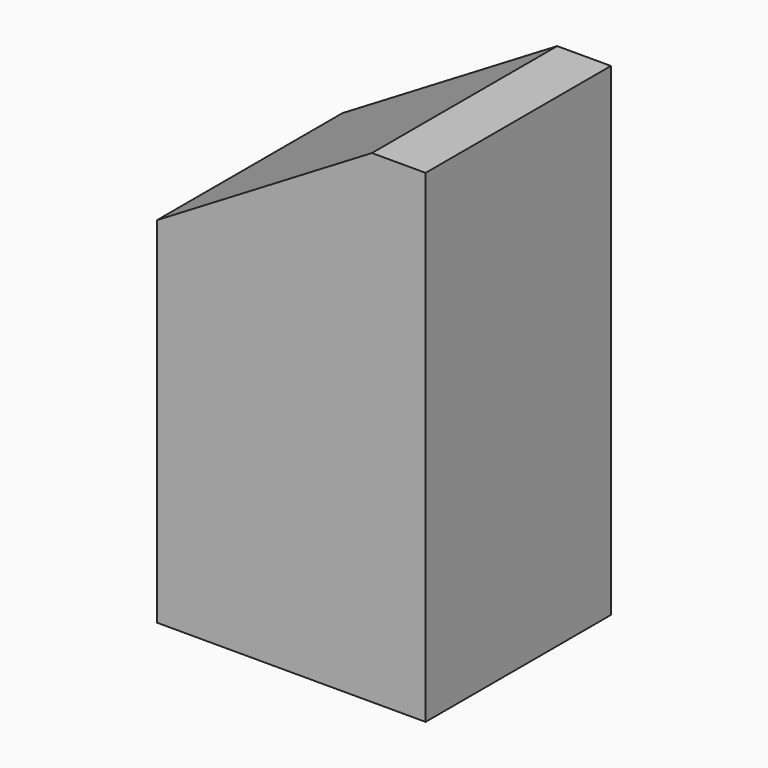
from build123d import *

# Parameters (mm, degrees)
SKETCH017_W     = 16
SKETCH017_H     = 15.8
PAD010_DEPTH    = 28.8
POCKET007_DEPTH = 16
PAD137_DEPTH    = 15.8
SKETCH190_W     = 16
SKETCH190_H     = 2
POCKET072_DEPTH = 30


with BuildPart() as part:
    # Sketch017 (on Face68 of Binder006) → Pad010 (new body)
    with BuildSketch(Plane.XY.offset(-28.8)):
        with Locations((-8, 127.9)):
            Rectangle(SKETCH017_W, SKETCH017_H)
    extrude(amount=PAD010_DEPTH)

    # Sketch018 (on Face3 of Pad010) → Pocket007 (cut)
    with BuildSketch(Plane.XZ.offset(-120)):
        Polygon((0, 0), (-16, -9.6), (-16, 0), align=None)
    extrude(amount=-POCKET007_DEPTH, mode=Mode.SUBTRACT)

    # Sketch141 (on Face6 of Pocket007) → Pad137 (join)
    with BuildSketch(Plane.XZ.offset(-120)):
        Polygon((0, 0), (-3.2, 0), (-16, -7.68), (-16, -10.88), (-3.2, -3.2), (0, -3.2), align=None)
    extrude(amount=-PAD137_DEPTH)

    # Sketch190 (on Face1 of Pad137) → Pocket072 (cut)
    with BuildSketch(Plane(origin=(0, 0, -28.8), x_dir=(1, 0, 0), z_dir=(0, 0, -1))):
        with Locations((-8, -121)):
            Rectangle(SKETCH190_W, SKETCH190_H)
    extrude(amount=-POCKET072_DEPTH, mode=Mode.SUBTRACT)


solid = part.part
